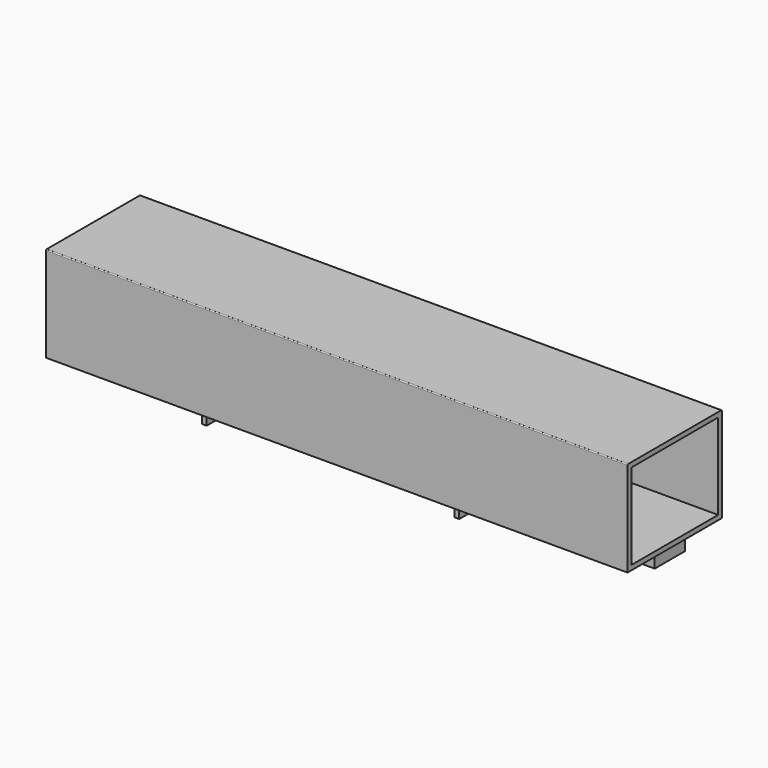
from build123d import *

# Parameters (mm, degrees)
F0_W     = 200
F0_H     = 600
F1_DEPTH = 300
F2_W     = 100
F2_H     = 627
F3_DEPTH = 300
F4_W     = 12200
F4_H     = 2475
F4_W_2   = 1800
F4_H_2   = 600
F4_W_3   = 2000
F4_W_4   = 800
F5_DEPTH = 2000
F6_R     = 20
F7_W     = 2275
F7_H     = 1800
F8_DEPTH = 12500
F9_R     = 20


with BuildPart() as f1:
    # F0 (on Top) → F1 (new body)
    with BuildSketch(Plane.XY):
        with Locations((30.1989898086, 300)):
            Rectangle(F0_W, F0_H)
        with Locations((2030.1989898086, 300)):
            Rectangle(F0_W, F0_H)
        Polygon((130.1989898086, 0), (-69.8010101914, 0), (-69.8010101914, -100), (11930.1989898086, -100), (11930.1989898086, 0), (11730.1989898086, 0), (10930.1989898086, 0), (10730.1989898086, 0), (8730.1989898086, 0), (8530.1989898086, 0), (6530.1989898086, 0), (6330.1989898086, 0), (4330.1989898086, 0), (4130.1989898086, 0), (2130.1989898086, 0), (1930.1989898086, 0), align=None)
        Polygon((-69.8010101914, 700), (-69.8010101914, 600), (130.1989898086, 600), (1930.1989898086, 600), (2130.1989898086, 600), (4130.1989898086, 600), (4330.1989898086, 600), (6330.1989898086, 600), (6530.1989898086, 600), (8530.1989898086, 600), (8730.1989898086, 600), (10730.1989898086, 600), (10930.1989898086, 600), (11730.1989898086, 600), (11930.1989898086, 600), (11930.1989898086, 700), align=None)
        with Locations((4230.1989898086, 300)):
            Rectangle(F0_W, F0_H)
        with Locations((6430.1989898086, 300)):
            Rectangle(F0_W, F0_H)
        with Locations((8630.1989898086, 300)):
            Rectangle(F0_W, F0_H)
        with Locations((10830.1989898086, 300)):
            Rectangle(F0_W, F0_H)
        with Locations((11830.1989898086, 300)):
            Rectangle(F0_W, F0_H)
    extrude(amount=F1_DEPTH)

    # F2 (on face) → F3 (join)
    with BuildSketch(Plane.XY.offset(300)):
        with Locations((2980.1989898086, -413.5)):
            Rectangle(F2_W, F2_H)
        with Locations((2980.1989898086, 1013.5)):
            Rectangle(F2_W, F2_H)
        with Locations((8280.1989898086, -413.5)):
            Rectangle(F2_W, F2_H)
        with Locations((8280.1989898086, 1013.5)):
            Rectangle(F2_W, F2_H)
    extrude(amount=-F3_DEPTH)


with BuildPart() as f5:
    # F4 (on face) → F5 (new body)
    with BuildSketch(Plane.XY.offset(300)):
        with Locations((5930.1989898086, 300)):
            Rectangle(F4_W, F4_H)
        Polygon((2930.1989898086, -100), (-69.8010101914, -100), (-69.8010101914, 700), (2930.1989898086, 700), (2930.1989898086, 1327), (3030.1989898086, 1327), (3030.1989898086, 700), (8230.1989898086, 700), (8230.1989898086, 1327), (8330.1989898086, 1327), (8330.1989898086, 700), (11930.1989898086, 700), (11930.1989898086, -100), (8330.1989898086, -100), (8330.1989898086, -727), (8230.1989898086, -727), (8230.1989898086, -100), (3030.1989898086, -100), (3030.1989898086, -727), (2930.1989898086, -727), align=None, mode=Mode.SUBTRACT)
        Polygon((-69.8010101914, 700), (-69.8010101914, -100), (2930.1989898086, -100), (2930.1989898086, -727), (3030.1989898086, -727), (3030.1989898086, -100), (8230.1989898086, -100), (8230.1989898086, -727), (8330.1989898086, -727), (8330.1989898086, -100), (11930.1989898086, -100), (11930.1989898086, 700), (8330.1989898086, 700), (8330.1989898086, 1327), (8230.1989898086, 1327), (8230.1989898086, 700), (3030.1989898086, 700), (3030.1989898086, 1327), (2930.1989898086, 1327), (2930.1989898086, 700), align=None)
        with Locations((1030.1989898086, 300)):
            Rectangle(F4_W_2, F4_H_2, mode=Mode.SUBTRACT)
        with Locations((3130.1989898086, 300)):
            Rectangle(F4_W_3, F4_H_2, mode=Mode.SUBTRACT)
        with Locations((5330.1989898086, 300)):
            Rectangle(F4_W_3, F4_H_2, mode=Mode.SUBTRACT)
        with Locations((7530.1989898086, 300)):
            Rectangle(F4_W_3, F4_H_2, mode=Mode.SUBTRACT)
        with Locations((9730.1989898086, 300)):
            Rectangle(F4_W_3, F4_H_2, mode=Mode.SUBTRACT)
        with Locations((11330.1989898086, 300)):
            Rectangle(F4_W_4, F4_H_2, mode=Mode.SUBTRACT)
        with Locations((5330.1989898086, 300)):
            Rectangle(F4_W_3, F4_H_2)
        with Locations((3130.1989898086, 300)):
            Rectangle(F4_W_3, F4_H_2)
        with Locations((7530.1989898086, 300)):
            Rectangle(F4_W_3, F4_H_2)
        with Locations((1030.1989898086, 300)):
            Rectangle(F4_W_2, F4_H_2)
        with Locations((9730.1989898086, 300)):
            Rectangle(F4_W_3, F4_H_2)
        with Locations((11330.1989898086, 300)):
            Rectangle(F4_W_4, F4_H_2)
    extrude(amount=F5_DEPTH)

    # F6
    f6_edges = [f5.edges().sort_by_distance(p)[0] for p in [
        (5930.19899, 1537.5, 2300),
        (5930.19899, -937.5, 2300),
    ]]
    fillet(f6_edges, radius=F6_R)

    # F7 (on face) → F8 (cut)
    with BuildSketch(Plane(origin=(-169.8010101914, 0, 0), x_dir=(0, -1, 0), z_dir=(-1, 0, 0))):
        with Locations((-300, 1300)):
            Rectangle(F7_W, F7_H)
    extrude(amount=-F8_DEPTH, mode=Mode.SUBTRACT)

    # F9
    f9_edges = [f5.edges().sort_by_distance(p)[0] for p in [
        (5930.19899, 1437.5, 2200),
        (5930.19899, -837.5, 2200),
    ]]
    fillet(f9_edges, radius=F9_R)


solid = Compound([f1.part, f5.part])
